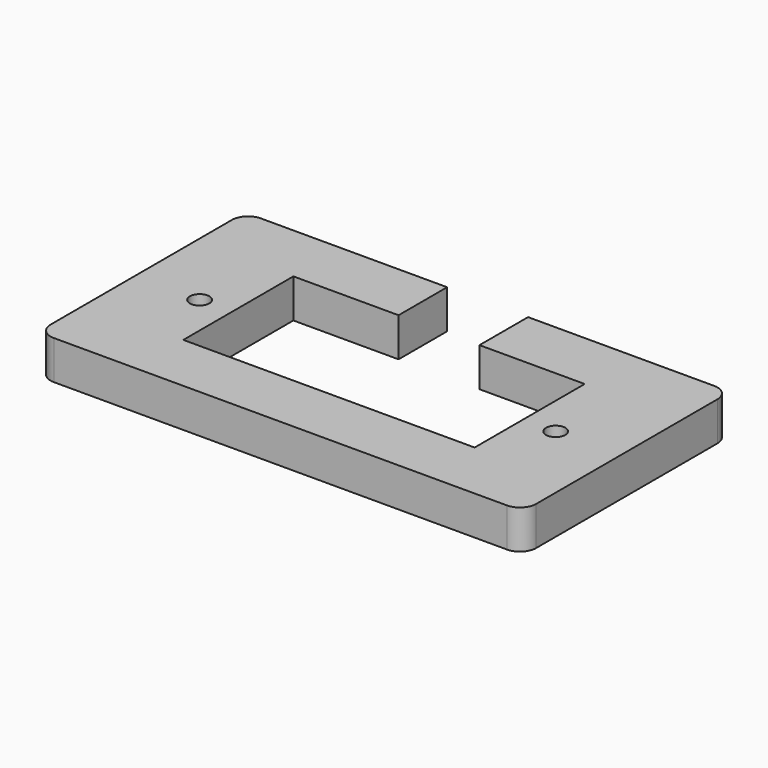
from build123d import *

# Parameters (mm, degrees)
F0_R     = 0.6
F1_DEPTH = 2.4
F2_R     = 1


with BuildPart() as f1:
    # F0 (on Top) → F1 (new body)
    with BuildSketch(Plane.XY):
        Polygon((2.5, 8.490209), (2.5, 4.740209), (9, 4.740209), (9, -3.759791), (0, -3.759791), (-9, -3.759791), (-9, 4.740209), (-2.5, 4.740209), (-2.5, 8.490209), (-15, 8.490209), (-15, -7.509791), (0, -7.509791), (15, -7.509791), (15, 8.490209), align=None)
        with Locations((-11, 0)):
            Circle(F0_R, mode=Mode.SUBTRACT)
        with Locations((11, 0)):
            Circle(F0_R, mode=Mode.SUBTRACT)
    extrude(amount=F1_DEPTH)

    # F2
    f2_edges = [f1.edges().sort_by_distance(p)[0] for p in [
        (15, 8.490209, 1.2),
        (15, -7.509791, 1.2),
        (-15, 8.490209, 1.2),
        (-15, -7.509791, 1.2),
    ]]
    fillet(f2_edges, radius=F2_R)


solid = f1.part
